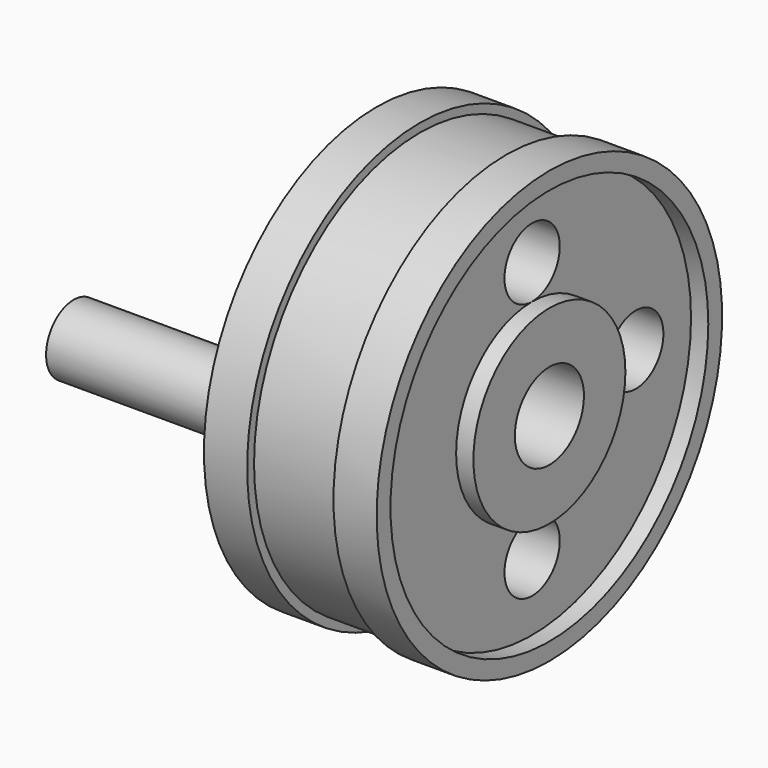
from build123d import *

# Parameters (mm, degrees)
F2_R      = 4
F3_DEPTH  = 20.001
F5_R      = 23
F5_R_2    = 11
F6_DEPTH  = 3
F8_R      = 23
F8_R_2    = 11
F9_DEPTH  = 3
F10_R     = 4
F11_DEPTH = 25


with BuildPart() as f1:
    # F0 (on Front) → F1 (revolve)
    with BuildSketch(Plane.XZ):
        Polygon((10.9751848876, 5), (10.9751848876, 25), (5.9751848876, 25), (5.9751848876, 24), (-4.0248151124, 24), (-4.0248151124, 25), (-9.0248151124, 25), (-9.0248151124, 5), align=None)
    revolve(axis=Axis((1.0365527123, 0, 0), (1, 0, 0)))

    # F2 (on face) → F3 (cut, through all)
    with BuildSketch(Plane(origin=(-9.0248151124, 0, 0), x_dir=(0, -1, 0), z_dir=(-1, 0, 0))):
        with Locations((0, 15)):
            Circle(F2_R)
        with Locations((-15, 0)):
            Circle(F2_R)
        with Locations((0, -15)):
            Circle(F2_R)
    extrude(amount=-F3_DEPTH, mode=Mode.SUBTRACT)

    # F5 (on offset) → F6 (cut)
    with BuildSketch(Plane(origin=(-10.0248151124, 0, 0), x_dir=(0, -1, 0), z_dir=(-1, 0, 0))):
        Circle(F5_R)
        Circle(F5_R_2, mode=Mode.SUBTRACT)
    extrude(amount=-F6_DEPTH, mode=Mode.SUBTRACT)

    # F8 (on offset) → F9 (cut)
    with BuildSketch(Plane.YZ.offset(11.9751848876)):
        Circle(F8_R)
        Circle(F8_R_2, mode=Mode.SUBTRACT)
    extrude(amount=-F9_DEPTH, mode=Mode.SUBTRACT)

    # F10 (on face) → F11 (join)
    with BuildSketch(Plane(origin=(-7.0248151124, 0, 0), x_dir=(0, -1, 0), z_dir=(-1, 0, 0))):
        with Locations((15.1, 0)):
            Circle(F10_R)
    extrude(amount=F11_DEPTH)


solid = f1.part
